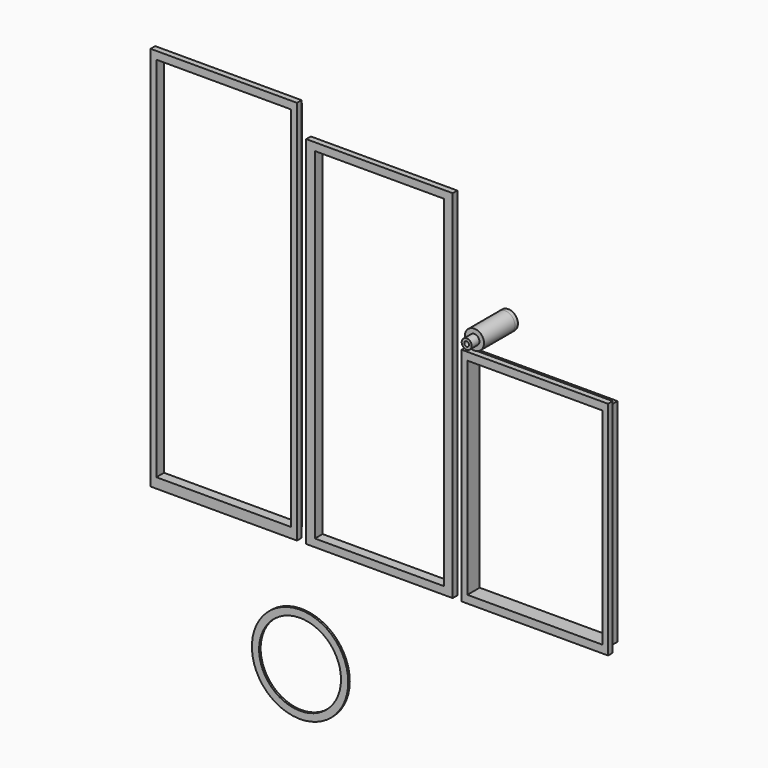
from build123d import *

# Parameters (mm, degrees)
F0_W      = 76
F0_H      = 200
F1_DEPTH  = 3
F2_W      = 73
F2_H      = 193.764015
F3_DEPTH  = 2
F4_W      = 70
F4_H      = 190.764015
F5_DEPTH  = 25.4
F6_W      = 76
F6_H      = 185
F7_DEPTH  = 3
F8_W      = 70
F8_H      = 180
F9_DEPTH  = 2
F10_W     = 67
F10_H     = 177
F11_DEPTH = 25.4
F12_W     = 76
F12_H     = 115
F13_DEPTH = 3
F14_W     = 73
F14_H     = 110
F15_DEPTH = 5
F16_W     = 70
F16_H     = 107
F17_DEPTH = 25.4
F18_R     = 5
F19_DEPTH = 20
F20_R     = 2.6
F21_DEPTH = 5
F23_R     = 0.65
F22_R     = 4.5
F25_R     = 5
F26_DEPTH = 2
F27_R     = 1.25
F28_DEPTH = 31
F29_R     = 25
F29_R_2   = 21.25
F30_DEPTH = 1


with BuildPart() as f1:
    # F0 (on Front) → F1 (new body)
    with BuildSketch(Plane.XZ):
        with Locations((-38, 100)):
            Rectangle(F0_W, F0_H)
    extrude(amount=F1_DEPTH)

    # F2 (on face) → F3 (join)
    with BuildSketch(Plane(origin=(0, 0, 0), x_dir=(-1, 0, 0), z_dir=(0, 1, 0))):
        with Locations((38, 100.617992)):
            Rectangle(F2_W, F2_H)
    extrude(amount=F3_DEPTH)

    # F4 (on face) → F5 (cut)
    with BuildSketch(Plane(origin=(0, 2, 0), x_dir=(-1, 0, 0), z_dir=(0, 1, 0))):
        with Locations((38, 100.617992)):
            Rectangle(F4_W, F4_H)
    extrude(amount=-F5_DEPTH, mode=Mode.SUBTRACT)


with BuildPart() as f7:
    # F6 (on Front) → F7 (new body)
    with BuildSketch(Plane.XZ):
        with Locations((42.803314, 92.5)):
            Rectangle(F6_W, F6_H)
    extrude(amount=F7_DEPTH)

    # F8 (on face) → F9 (join)
    with BuildSketch(Plane(origin=(0, 0, 0), x_dir=(-1, 0, 0), z_dir=(0, 1, 0))):
        with Locations((-42.803314, 92.5)):
            Rectangle(F8_W, F8_H)
    extrude(amount=F9_DEPTH)

    # F10 (on face) → F11 (cut)
    with BuildSketch(Plane(origin=(0, 2, 0), x_dir=(-1, 0, 0), z_dir=(0, 1, 0))):
        with Locations((-42.803314, 92.5)):
            Rectangle(F10_W, F10_H)
    extrude(amount=-F11_DEPTH, mode=Mode.SUBTRACT)


with BuildPart() as f13:
    # F12 (on Front) → F13 (new body)
    with BuildSketch(Plane.XZ):
        with Locations((123.432, 57.5)):
            Rectangle(F12_W, F12_H)
    extrude(amount=F13_DEPTH)

    # F14 (on face) → F15 (join)
    with BuildSketch(Plane(origin=(0, 0, 0), x_dir=(-1, 0, 0), z_dir=(0, 1, 0))):
        with Locations((-123.432, 57.5)):
            Rectangle(F14_W, F14_H)
    extrude(amount=F15_DEPTH)

    # F16 (on face) → F17 (cut)
    with BuildSketch(Plane(origin=(0, 5, 0), x_dir=(-1, 0, 0), z_dir=(0, 1, 0))):
        with Locations((-123.432, 57.5)):
            Rectangle(F16_W, F16_H)
    extrude(amount=-F17_DEPTH, mode=Mode.SUBTRACT)


with BuildPart() as f19:
    # F18 (on Front) → F19 (new body)
    with BuildSketch(Plane.XZ):
        with Locations((105.681598, 133.112267)):
            Circle(F18_R)
    extrude(amount=F19_DEPTH)

    # F20 (on face) → F21 (join)
    with BuildSketch(Plane.XZ.offset(20)):
        with Locations((105.681598, 133.112267)):
            Circle(F20_R)
    extrude(amount=F21_DEPTH)

    # F23 (on face) → F24 section 0
    with BuildSketch(Plane.XZ.offset(25)):
        with Locations((105.681598, 133.112267)):
            Circle(F23_R)
    # F22 (on face) → F24 section 1
    with BuildSketch(Plane(origin=(0, 0, 0), x_dir=(-1, 0, 0), z_dir=(0, 1, 0))):
        with Locations((-105.681598, 133.112267)):
            Circle(F22_R)
    loft(mode=Mode.SUBTRACT)

    # F25 (on face) → F26 (join)
    with BuildSketch(Plane(origin=(0, 0, 0), x_dir=(-1, 0, 0), z_dir=(0, 1, 0))):
        with Locations((-105.681598, 133.112267)):
            Circle(F25_R)
    extrude(amount=F26_DEPTH)

    # F27 (on face) → F28 (cut)
    with BuildSketch(Plane(origin=(0, 2, 0), x_dir=(-1, 0, 0), z_dir=(0, 1, 0))):
        with Locations((-105.681598, 133.112267)):
            Circle(F27_R)
    extrude(amount=-F28_DEPTH, mode=Mode.SUBTRACT)


with BuildPart() as f30:
    # F29 (on Front) → F30 (new body)
    with BuildSketch(Plane.XZ):
        with Locations((0, -57.361517)):
            Circle(F29_R)
        with Locations((0, -57.361517)):
            Circle(F29_R_2, mode=Mode.SUBTRACT)
    extrude(amount=F30_DEPTH)


solid = Compound([f1.part, f7.part, f13.part, f19.part, f30.part])
